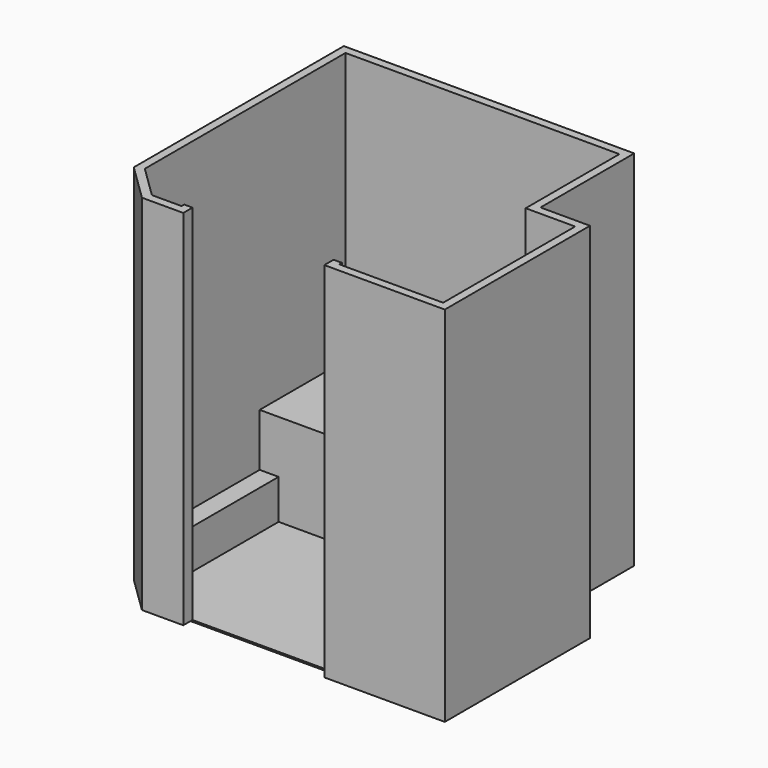
from build123d import *

# Parameters (mm, degrees)
F1_DEPTH = 2200
F2_DEPTH = 560
F0_W     = 115
F0_H     = 720
F3_DEPTH = 240
F0_W_2   = 185
F4_DEPTH = 280
F5_DEPTH = 10


with BuildPart() as f1:
    # F0 (on Top) → F1 (new body)
    with BuildSketch(Plane.XY):
        Polygon((0, -650), (0, 0), (1660, 0), (1660, -650), (1660, -710), (1775, -710), (1960, -710), (1960, -1430), (1960, -1710), (1330, -1710), (1330, -1690), (1280, -1690), (1280, -1740), (1280, -1760), (2010, -1760), (2010, -660), (1710, -660), (1710, 50), (-50, 50), (-50, -1541.092069), (174.668666, -1760), (425, -1760), (425, -1740), (425, -1690), (375, -1690), (375, -1710), (195, -1710), (0, -1520), (0, -1370), align=None)
    extrude(amount=F1_DEPTH)

    # F0 (on Top) → F2 (join)
    with BuildSketch(Plane.XY):
        Polygon((1660, 0), (0, 0), (0, -650), (115, -650), (1660, -650), align=None)
    extrude(amount=F2_DEPTH)

    # F0 (on Top) → F3 (join)
    with BuildSketch(Plane.XY):
        with Locations((57.5, -1010)):
            Rectangle(F0_W, F0_H)
    extrude(amount=F3_DEPTH)

    # F0 (on Top) → F4 (join)
    with BuildSketch(Plane.XY):
        with Locations((1867.5, -1070)):
            Rectangle(F0_W_2, F0_H)
    extrude(amount=F4_DEPTH)


with BuildPart() as f5:
    # F0 (on Top) → F5 (new body)
    with BuildSketch(Plane.XY):
        Polygon((1660, -710), (1660, -650), (115, -650), (115, -1370), (0, -1370), (0, -1520), (195, -1710), (375, -1710), (375, -1690), (425, -1690), (1280, -1690), (1330, -1690), (1330, -1710), (1960, -1710), (1960, -1430), (1775, -1430), (1775, -710), align=None)
    extrude(amount=-F5_DEPTH)


solid = Compound([f1.part, f5.part])
